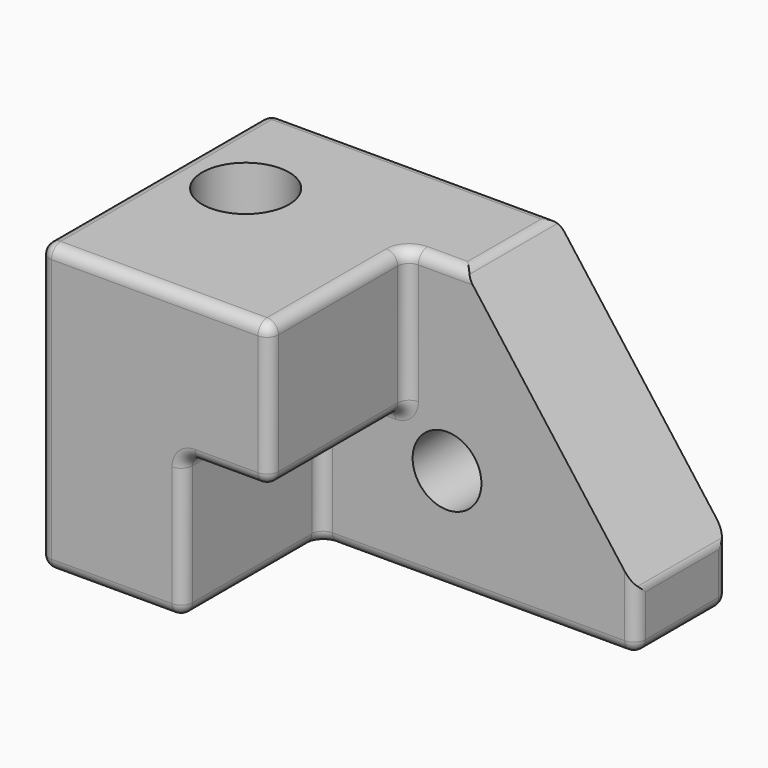
from build123d import *

# Parameters (mm, degrees)
F0_W     = 203.2
F0_H     = 127
F1_DEPTH = 127
F3_DEPTH = 76.2
F4_SIZE2 = 101.6
F4_SIZE  = 76.2
F5_R     = 5.08
F6_R     = 15.24
F7_DEPTH = 50.8
F8_R     = 19.252046471
F9_DEPTH = 127


with BuildPart() as f1:
    # F0 (on Front) → F1 (new body)
    with BuildSketch(Plane.XZ):
        with Locations((-4.3338742107, -2.5460490198)):
            Rectangle(F0_W, F0_H)
    extrude(amount=F1_DEPTH)

    # F2 (on face) → F3 (cut)
    with BuildSketch(Plane.XZ.offset(127)):
        Polygon((-42.4338742107, -2.5460490198), (-42.4338742107, -66.0460490198), (97.2661257893, -66.0460490198), (97.2661257893, 60.9539509802), (-4.3338742107, 60.9539509802), (-4.3338742107, -2.5460490198), align=None)
    extrude(amount=-F3_DEPTH, mode=Mode.SUBTRACT)

    # F4
    f4_edges = [f1.edges().sort_by_distance(p)[0] for p in [
        (97.266126, -25.4, 60.953951),
    ]]
    f4_side = f1.faces().sort_by_distance((-26.105303, -52.614286, 60.953951))[0]
    chamfer(f4_edges, length=F4_SIZE, length2=F4_SIZE2, reference=f4_side)

    # F5
    f5_edges = [f1.edges().sort_by_distance(p)[0] for p in [
        (-4.333874, -88.9, -2.546049),
        (-42.433874, -88.9, -2.546049),
        (-23.383874, -127, -2.546049),
        (-23.383874, -50.8, -2.546049),
        (-42.433874, 0, 60.953951),
        (21.066126, -25.4, 60.953951),
        (-105.933874, -63.5, 60.953951),
        (8.366126, -50.8, 60.953951),
        (-55.133874, -127, 60.953951),
        (-4.333874, -88.9, 60.953951),
        (-4.333874, -127, 29.203951),
        (-4.333874, -50.8, 29.203951),
        (-42.433874, -88.9, -66.046049),
        (-42.433874, -127, -34.296049),
        (-42.433874, -50.8, -34.296049),
        (97.266126, 0, -53.346049),
        (97.266126, -25.4, -40.646049),
        (97.266126, -25.4, -66.046049),
        (97.266126, -50.8, -53.346049),
        (-105.933874, -63.5, -66.046049),
        (-105.933874, 0, -2.546049),
        (-105.933874, -127, -2.546049),
        (-4.333874, 0, -66.046049),
        (27.416126, -50.8, -66.046049),
        (-74.183874, -127, -66.046049),
    ]]
    fillet(f5_edges, radius=F5_R)

    # F6 (on face) → F7 (cut, through all)
    with BuildSketch(Plane.XZ.offset(50.8)):
        with Locations((13.4461257893, -20.3260490198)):
            Circle(F6_R)
    extrude(amount=-F7_DEPTH, mode=Mode.SUBTRACT)

    # F8 (on face) → F9 (cut, through all)
    with BuildSketch(Plane.XY.offset(60.9539509802)):
        with Locations((-75.6851807237, -50.9467981756)):
            Circle(F8_R)
    extrude(amount=-F9_DEPTH, mode=Mode.SUBTRACT)


solid = f1.part
